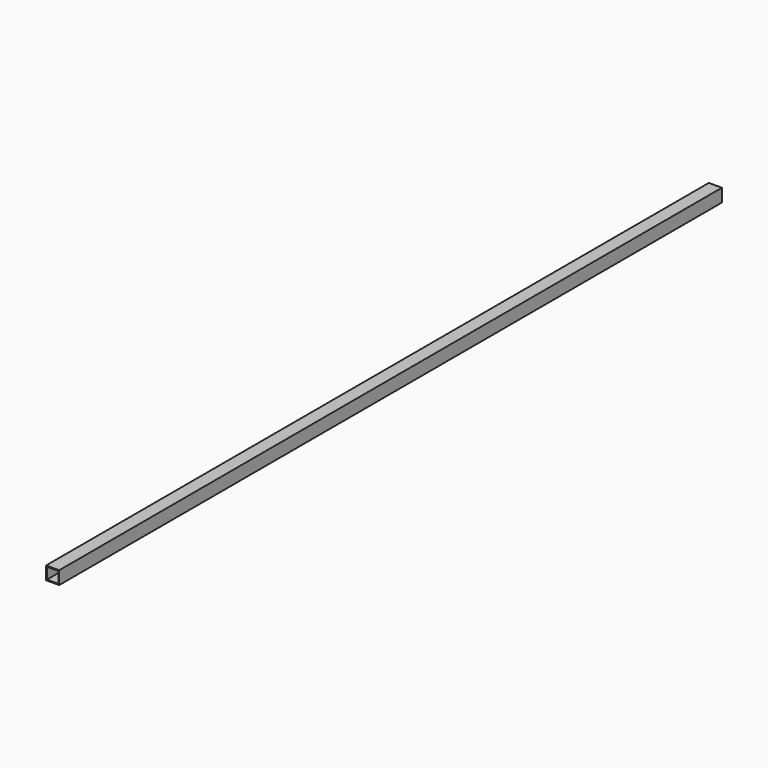
from build123d import *

# Parameters (mm, degrees)
SKETCH_W   = 30
SKETCH_H   = 30
SKETCH_W_2 = 26
SKETCH_H_2 = 26
PAD_DEPTH  = 1900


with BuildPart() as part:
    # Sketch → Pad (new body)
    with BuildSketch(Plane.XZ):
        with Locations((15, 15)):
            Rectangle(SKETCH_W, SKETCH_H)
        with Locations((15, 15)):
            Rectangle(SKETCH_W_2, SKETCH_H_2, mode=Mode.SUBTRACT)
    extrude(amount=PAD_DEPTH)


solid = part.part
